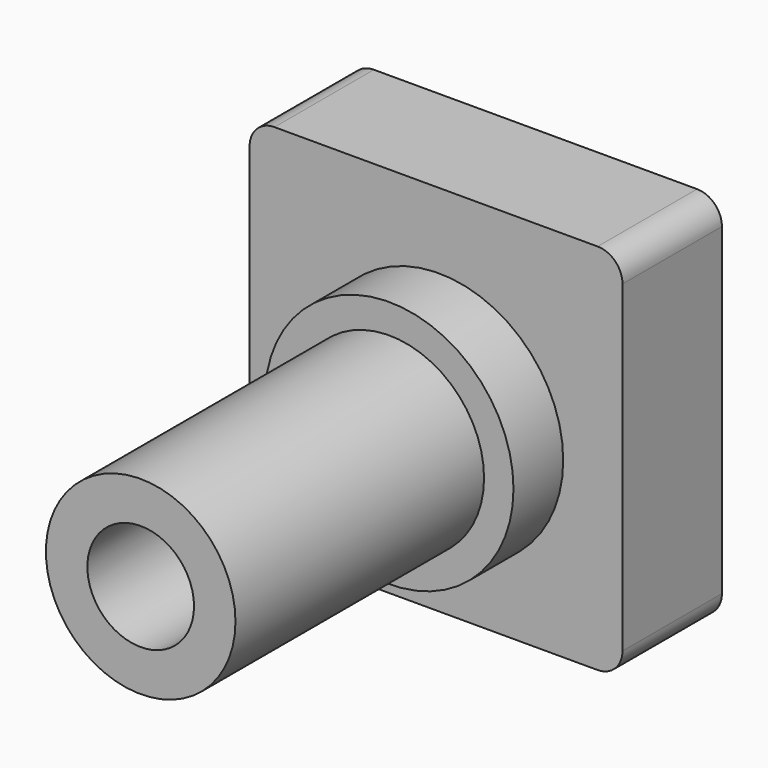
from build123d import *

# Parameters (mm, degrees)
F0_W     = 76.2
F0_H     = 76.2
F1_DEPTH = 25.4
F2_R     = 5.08
F3_R     = 25.383662
F4_DEPTH = 12.7
F5_R     = 19.36967
F6_DEPTH = 63.5
F7_R     = 10.899394
F8_DEPTH = 63.5


with BuildPart() as f1:
    # F0 (on Front) → F1 (new body)
    with BuildSketch(Plane.XZ):
        with Locations((4.244136, 2.642533)):
            Rectangle(F0_W, F0_H)
    extrude(amount=F1_DEPTH)

    # F2
    f2_edges = [f1.edges().sort_by_distance(p)[0] for p in [
        (-33.855864, -12.7, 40.742533),
        (42.344136, -12.7, 40.742533),
        (42.344136, -12.7, -35.457467),
        (-33.855864, -12.7, -35.457467),
    ]]
    fillet(f2_edges, radius=F2_R)

    # F3 (on face) → F4 (join)
    with BuildSketch(Plane.XZ.offset(25.4)):
        with Locations((4.844644, 0)):
            Circle(F3_R)
    extrude(amount=F4_DEPTH)

    # F5 (on face) → F6 (join)
    with BuildSketch(Plane.XZ.offset(38.1)):
        with Locations((4.844644, 0)):
            Circle(F5_R)
    extrude(amount=F6_DEPTH)

    # F7 (on face) → F8 (cut)
    with BuildSketch(Plane.XZ.offset(101.6)):
        with Locations((4.844644, 0)):
            Circle(F7_R)
    extrude(amount=-F8_DEPTH, mode=Mode.SUBTRACT)


solid = f1.part
